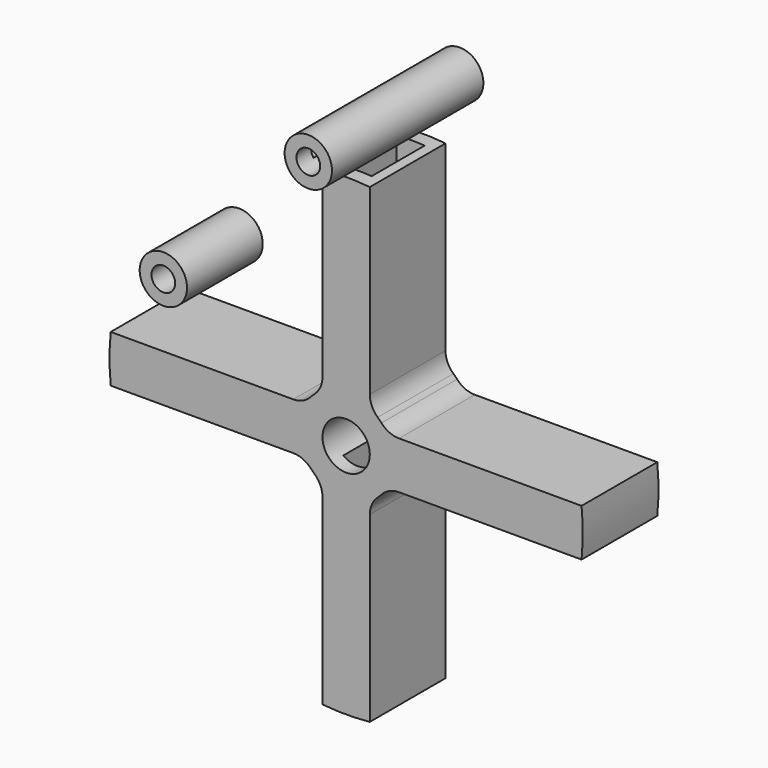
from build123d import *

# Parameters (mm, degrees)
F0_R     = 6.35
F1_DEPTH = 12.7
F2_W     = 7.62
F2_H     = 17.78
F3_DEPTH = 63.5
F4_R     = 6.35
F4_R_2   = 3.175
F5_DEPTH = 25.4
F6_W     = 15.6068057844
F6_H     = 4.3750892854
F7_DEPTH = 7.62
F8_R     = 6.35
F8_R_2   = 3.175
F9_DEPTH = 25.4


with BuildPart() as f1:
    # F0 (on Front) → F1 (new body, symmetric)
    with BuildSketch(Plane.XZ):
        with BuildLine():
            Line((6.35, 14.1990316571), (6.35, 63.1817022563))
            ThreePointArc((6.35, 63.1817022563), (0, 63.5), (-6.35, 63.1817022563))
            Line((-6.35, 63.1817022563), (-6.35, 14.1990316571))
            ThreePointArc((-6.35, 14.1990316571), (-6.9032695997, 11.6066550127), (-8.4666666667, 9.4660211047))
            ThreePointArc((-8.4666666667, 9.4660211047), (-8.9802561211, 8.9802561211), (-9.4660211047, 8.4666666667))
            ThreePointArc((-9.4660211047, 8.4666666667), (-11.6066550127, 6.9032695997), (-14.1990316571, 6.35))
            Line((-14.1990316571, 6.35), (-63.1817022563, 6.35))
            ThreePointArc((-63.1817022563, 6.35), (-63.5, 0), (-63.1817022563, -6.35))
            Line((-63.1817022563, -6.35), (-14.1990316571, -6.35))
            ThreePointArc((-14.1990316571, -6.35), (-11.6066550127, -6.9032695997), (-9.4660211047, -8.4666666667))
            ThreePointArc((-9.4660211047, -8.4666666667), (-8.9802561211, -8.9802561211), (-8.4666666667, -9.4660211047))
            ThreePointArc((-8.4666666667, -9.4660211047), (-6.9032695997, -11.6066550127), (-6.35, -14.1990316571))
            Line((-6.35, -14.1990316571), (-6.35, -63.1817022563))
            ThreePointArc((-6.35, -63.1817022563), (0, -63.5), (6.35, -63.1817022563))
            Line((6.35, -63.1817022563), (6.35, -14.1990316571))
            ThreePointArc((6.35, -14.1990316571), (6.9032695997, -11.6066550127), (8.4666666667, -9.4660211047))
            ThreePointArc((8.4666666667, -9.4660211047), (8.9802561211, -8.9802561211), (9.4660211047, -8.4666666667))
            ThreePointArc((9.4660211047, -8.4666666667), (11.6066550127, -6.9032695997), (14.1990316571, -6.35))
            Line((14.1990316571, -6.35), (63.1817022563, -6.35))
            ThreePointArc((63.1817022563, -6.35), (63.5, 0), (63.1817022563, 6.35))
            Line((63.1817022563, 6.35), (14.1990316571, 6.35))
            ThreePointArc((14.1990316571, 6.35), (11.6066550127, 6.9032695997), (9.4660211047, 8.4666666667))
            ThreePointArc((9.4660211047, 8.4666666667), (8.9802561211, 8.9802561211), (8.4666666667, 9.4660211047))
            ThreePointArc((8.4666666667, 9.4660211047), (6.9032695997, 11.6066550127), (6.35, 14.1990316571))
        make_face()
        Circle(F0_R, mode=Mode.SUBTRACT)
    extrude(amount=F1_DEPTH, both=True)

    # F2 (on Top) → F3 (cut, symmetric)
    with BuildSketch(Plane.XY):
        Rectangle(F2_W, F2_H)
    extrude(amount=F3_DEPTH, both=True, mode=Mode.SUBTRACT)


with BuildPart() as f5:
    # F4 (on Front) → F5 (new body, symmetric)
    with BuildSketch(Plane.XZ):
        with Locations((0, 72.2670927644)):
            Circle(F4_R)
        with Locations((0, 72.2670927644)):
            Circle(F4_R_2, mode=Mode.SUBTRACT)
    extrude(amount=F5_DEPTH, both=True)

    # F6 (on Right) → F7 (cut)
    with BuildSketch(Plane.YZ):
        with Locations((-12.669967137, 72.5331013586)):
            Rectangle(F6_W, F6_H)
    extrude(amount=-F7_DEPTH, mode=Mode.SUBTRACT)


with BuildPart() as f9:
    # F8 (on Front) → F9 (new body)
    with BuildSketch(Plane.XZ):
        with Locations((-38.8971231878, 31.911842525)):
            Circle(F8_R)
        with Locations((-38.8971231878, 31.911842525)):
            Circle(F8_R_2, mode=Mode.SUBTRACT)
    extrude(amount=F9_DEPTH)


solid = Compound([f1.part, f5.part, f9.part])
